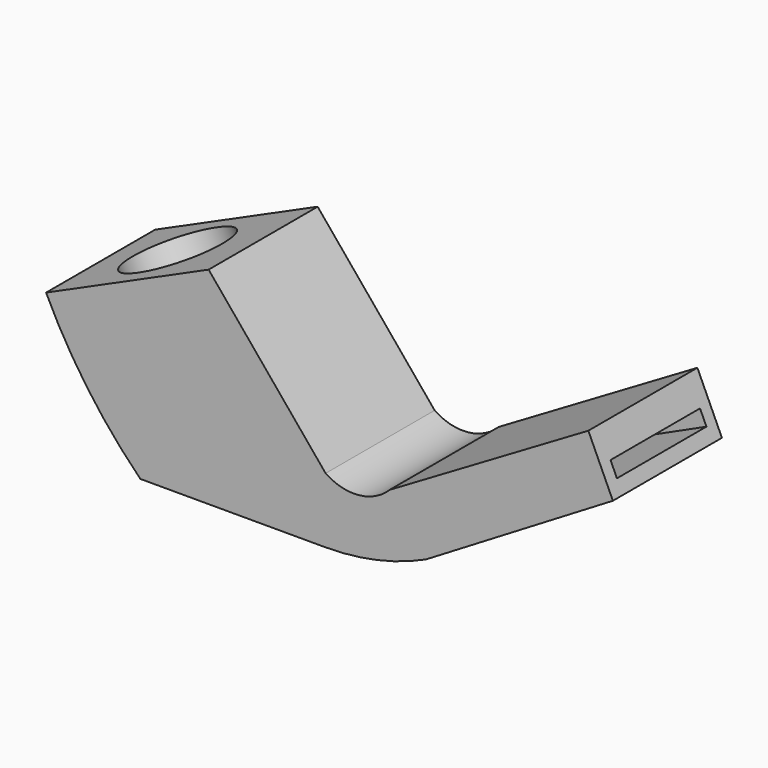
from build123d import *

# Parameters (mm, degrees)
F1_DEPTH = 7.62
F2_DEPTH = 7.62
F3_R     = 2.7444013429
F4_DEPTH = 6.35
F5_W     = 6.2532699667
F5_H     = 0.86275296
F6_DEPTH = 7.62


with BuildPart() as f1:
    # F0 (on Front) → F1 (new body)
    with BuildSketch(Plane.XZ):
        with BuildLine():
            Line((-10.3579089046, 0), (0, 0))
            Line((0, 0), (0, 3.645401448))
            Line((0, 3.645401448), (-6.5403589979, 11.5425735712))
            Line((-6.5403589979, 11.5425735712), (-15.6276854686, 7.4571091682))
            ThreePointArc((-15.6276854686, 7.4571091682), (-13.3121430449, 3.5028798243), (-10.3579089046, 0))
        make_face()
    extrude(amount=F1_DEPTH)

    # F0 (on Front) → F2 (join)
    with BuildSketch(Plane.XZ):
        with BuildLine():
            Line((0, 3.645401448), (0, 0))
            ThreePointArc((0, 0), (2.8721308182, 0.311594991), (5.6106159464, 1.2318808585))
            Line((5.6106159464, 1.2318808585), (16.058837386, 7.5155025299))
            Line((16.058837386, 7.5155025299), (14.6878519678, 10.5192856507))
            Line((14.6878519678, 10.5192856507), (3.5806233063, 3.9957128465))
            ThreePointArc((3.5806233063, 3.9957128465), (1.853653217, 3.1731266591), (0, 3.645401448))
        make_face()
    extrude(amount=F2_DEPTH)

    # F3 (on face) → F4 (cut)
    with BuildSketch(Plane(origin=(-5.4164543998, 0, 12.0478566424), x_dir=(0.9120653953, 0, 0.4100447715), z_dir=(-0.4100447715, 0, 0.9120653953))):
        with Locations((-6.5201530233, -3.7630312145)):
            Circle(F3_R)
    extrude(amount=-F4_DEPTH, mode=Mode.SUBTRACT)

    # F5 (on face) → F6 (cut)
    with BuildSketch(Plane(origin=(16.1290707313, 0, 7.3616236234), x_dir=(0, 1, 0), z_dir=(0.9097231122, 0, 0.4152154371))):
        with Locations((-3.7998675834, 1.3887053062)):
            Rectangle(F5_W, F5_H)
    extrude(amount=-F6_DEPTH, mode=Mode.SUBTRACT)


solid = f1.part
